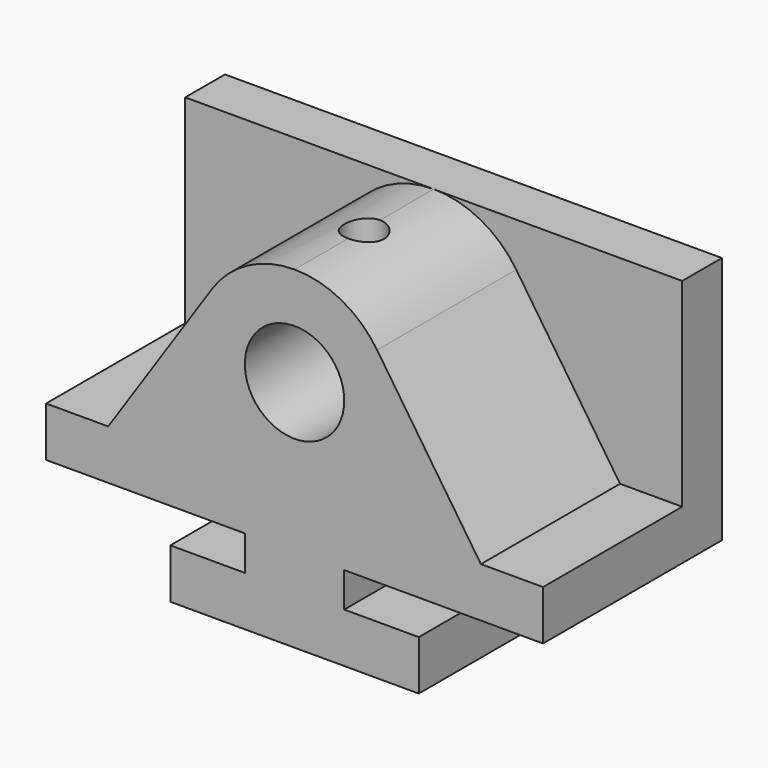
from build123d import *

# Parameters (mm, degrees)
F0_R     = 12.7
F1_DEPTH = 57.15
F2_DEPTH = 44.45
F3_R     = 5.08
F4_DEPTH = 25.4


with BuildPart() as f1:
    # F0 (on Front) → F1 (new body)
    with BuildSketch(Plane.XZ):
        with BuildLine():
            Line((0, 12.7), (0, 0))
            Line((0, 0), (63.5, 0))
            Line((63.5, 0), (63.5, 12.7))
            Line((63.5, 12.7), (44.45, 12.7))
            Line((44.45, 12.7), (44.45, 21.59))
            Line((44.45, 21.59), (95.25, 21.59))
            Line((95.25, 21.59), (95.25, 34.29))
            Line((95.25, 34.29), (79.375, 34.29))
            Line((79.375, 34.29), (52.843426, 73.840173))
            ThreePointArc((52.843426, 73.840173), (43.702941, 82.101765), (31.75, 85.09))
            ThreePointArc((31.75, 85.09), (19.797059, 82.101765), (10.656574, 73.840173))
            Line((10.656574, 73.840173), (-15.875, 34.29))
            Line((-15.875, 34.29), (-31.75, 34.29))
            Line((-31.75, 34.29), (-31.75, 21.59))
            Line((-31.75, 21.59), (19.05, 21.59))
            Line((19.05, 21.59), (19.05, 12.7))
            Line((19.05, 12.7), (0, 12.7))
        make_face()
        with Locations((31.75, 59.69)):
            Circle(F0_R, mode=Mode.SUBTRACT)
        with BuildLine():
            Line((-31.75, 85.09), (-31.75, 34.29))
            Line((-31.75, 34.29), (-15.875, 34.29))
            Line((-15.875, 34.29), (10.656574, 73.840173))
            ThreePointArc((10.656574, 73.840173), (19.797059, 82.101765), (31.75, 85.09))
            Line((31.75, 85.09), (-31.75, 85.09))
        make_face()
        with BuildLine():
            Line((79.375, 34.29), (95.25, 34.29))
            Line((95.25, 34.29), (95.25, 85.09))
            Line((95.25, 85.09), (31.75, 85.09))
            ThreePointArc((31.75, 85.09), (43.702941, 82.101765), (52.843426, 73.840173))
            Line((52.843426, 73.840173), (79.375, 34.29))
        make_face()
    extrude(amount=-F1_DEPTH)

    # F0 (on Front) → F2 (cut)
    with BuildSketch(Plane.XZ):
        with BuildLine():
            Line((79.375, 34.29), (95.25, 34.29))
            Line((95.25, 34.29), (95.25, 85.09))
            Line((95.25, 85.09), (31.75, 85.09))
            ThreePointArc((31.75, 85.09), (43.702941, 82.101765), (52.843426, 73.840173))
            Line((52.843426, 73.840173), (79.375, 34.29))
        make_face()
        with BuildLine():
            Line((-31.75, 85.09), (-31.75, 34.29))
            Line((-31.75, 34.29), (-15.875, 34.29))
            Line((-15.875, 34.29), (10.656574, 73.840173))
            ThreePointArc((10.656574, 73.840173), (19.797059, 82.101765), (31.75, 85.09))
            Line((31.75, 85.09), (-31.75, 85.09))
        make_face()
    extrude(amount=-F2_DEPTH, mode=Mode.SUBTRACT)

    # F3 (on face) → F4 (cut)
    with BuildSketch(Plane.XY.offset(85.09)):
        with Locations((31.75, 22.225)):
            Circle(F3_R)
    extrude(amount=-F4_DEPTH, mode=Mode.SUBTRACT)


solid = f1.part
